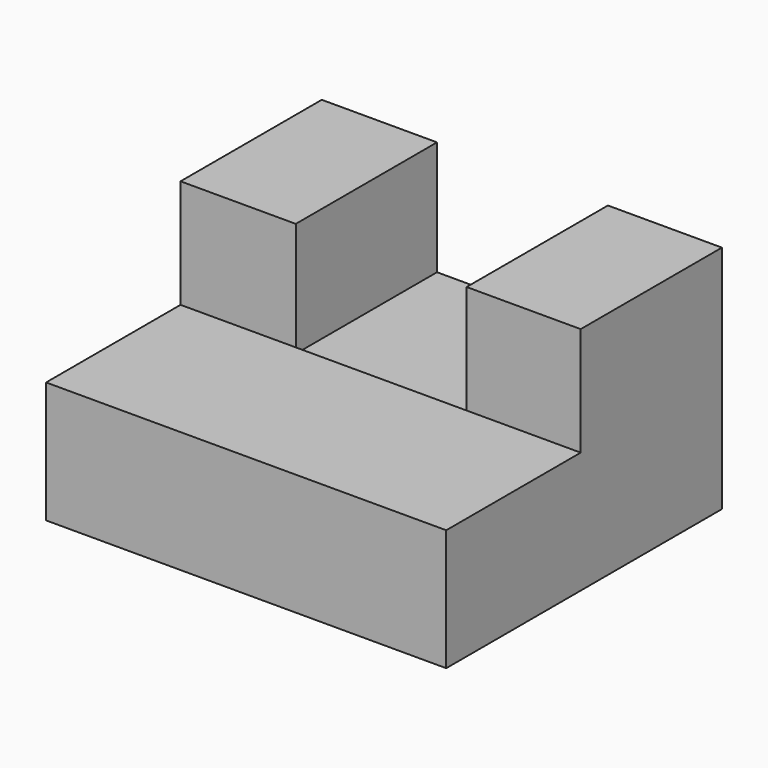
from build123d import *

# Parameters (mm, degrees)
F1_DEPTH = 88.9
F3_DEPTH = 25.4


with BuildPart() as f1:
    # F0 (on Right) → F1 (new body)
    with BuildSketch(Plane.YZ):
        Polygon((15.531352, 26.983766), (-23.689235, 26.983766), (-23.689235, 2.823883), (-61.027236, 2.823883), (-61.027236, -24.159884), (15.531352, -24.159884), align=None)
    extrude(amount=-F1_DEPTH)

    # F2 (on face) → F3 (cut)
    with BuildSketch(Plane.XY.offset(26.983766)):
        Polygon((-63.298292, 15.531352), (-63.298292, -4.078941), (-63.298292, -23.689235), (-25.332764, -23.689235), (-25.332764, -4.078941), (-25.332764, 15.531352), align=None)
    extrude(amount=-F3_DEPTH, mode=Mode.SUBTRACT)


solid = f1.part
